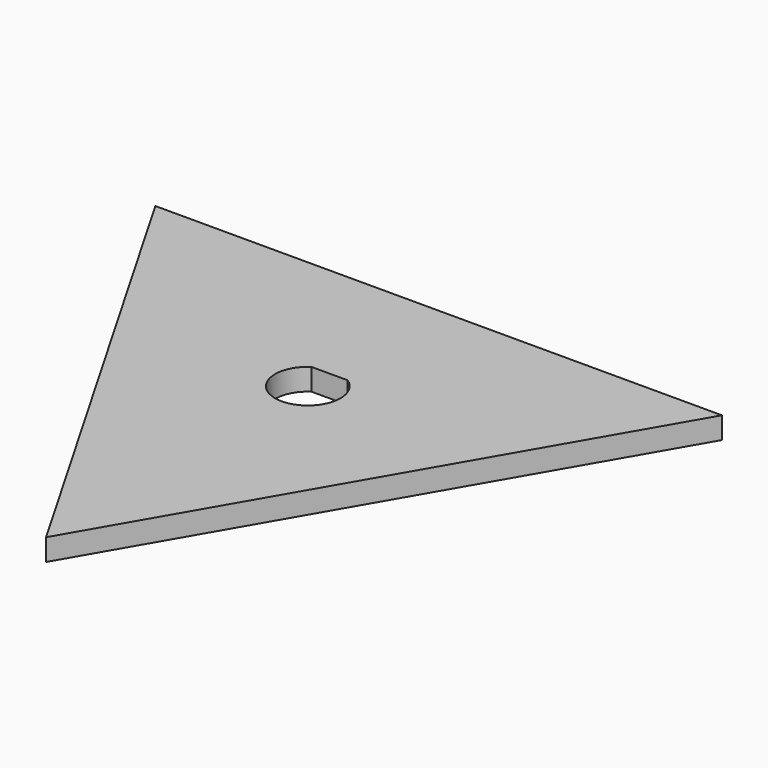
from build123d import *

# Parameters (mm, degrees)
F1_DEPTH = 2


with BuildPart() as f1:
    # F0 (on Top) → F1 (new body)
    with BuildSketch(Plane.XY):
        Polygon((25.980762, 15), (-25.980762, 15), (0, -30), align=None)
        with BuildLine():
            ThreePointArc((1.658312, 2.5), (2.643382, 1.418637), (3, 0))
            ThreePointArc((3, 0), (-1.418637, -2.643382), (-1.658312, 2.5))
            ThreePointArc((-1.658312, 2.5), (0, 3), (1.658312, 2.5))
        make_face(mode=Mode.SUBTRACT)
        with BuildLine():
            Line((-1.658312, 2.5), (1.658312, 2.5))
            ThreePointArc((1.658312, 2.5), (0, 3), (-1.658312, 2.5))
        make_face()
    extrude(amount=F1_DEPTH)


solid = f1.part
